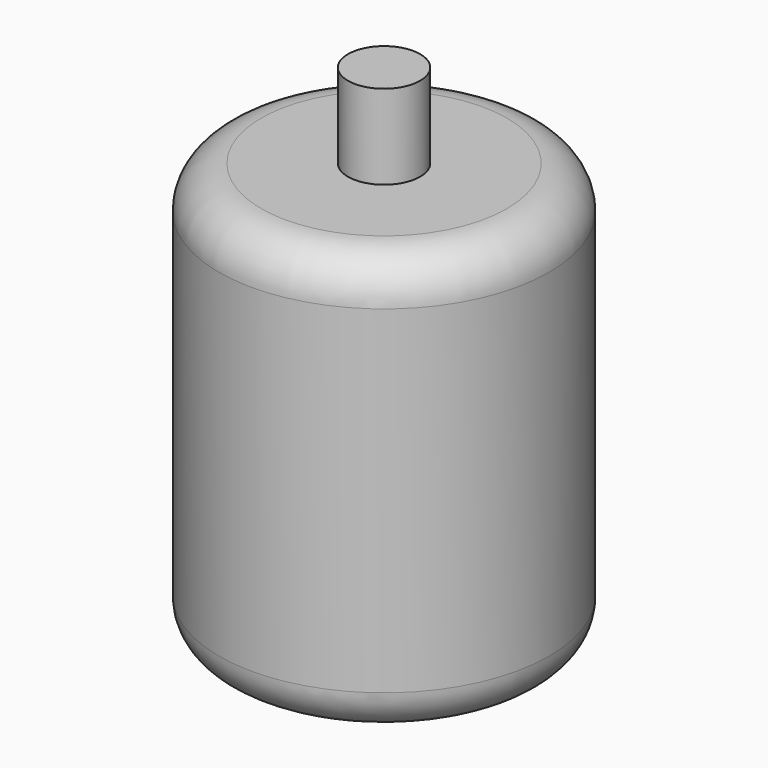
from build123d import *

# Parameters (mm, degrees)
F0_R     = 49.609853
F1_DEPTH = 127
F2_R     = 10.853021
F3_DEPTH = 25.4
F4_R     = 12.7


with BuildPart() as f1:
    # F0 (on Top) → F1 (new body)
    with BuildSketch(Plane.XY):
        Circle(F0_R)
    extrude(amount=F1_DEPTH)

    # F2 (on face) → F3 (join)
    with BuildSketch(Plane.XY.offset(127)):
        Circle(F2_R)
    extrude(amount=F3_DEPTH)

    # F4
    f4_edges = [f1.edges().sort_by_distance(p)[0] for p in [
        (-49.609853, 0, 127),
        (49.609853, 0, 63.5),
        (-49.609853, 0, 0),
    ]]
    fillet(f4_edges, radius=F4_R)


solid = f1.part
